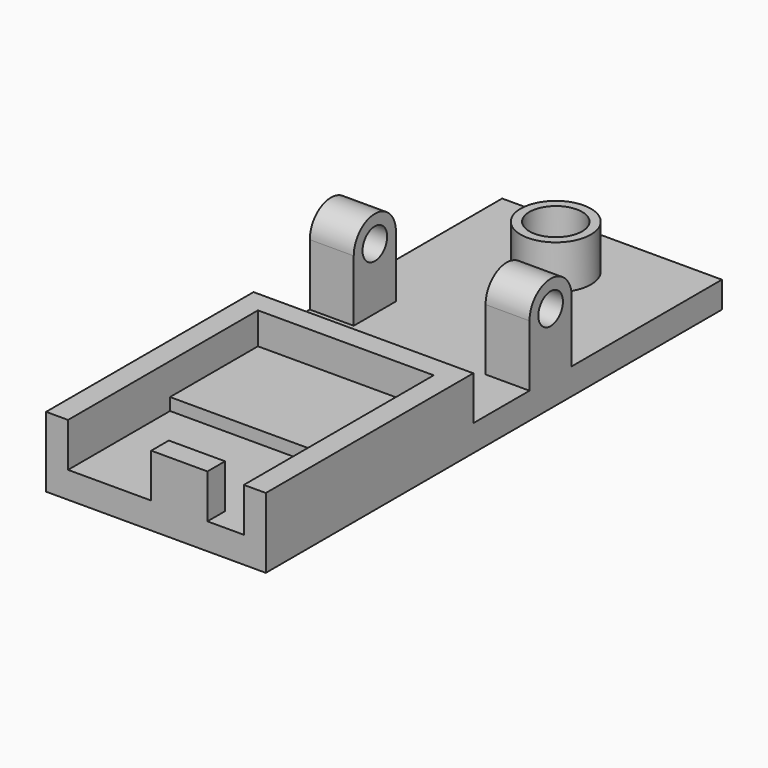
from build123d import *

# Parameters (mm, degrees)
F0_W      = 4.1414871812
F0_H      = 2.5
F0_W_2    = 6.3956826925
F0_W_3    = 4.0508699417
F0_W_4    = 5.4119601846
F0_W_5    = 25
F0_H_2    = 35.3582080007
F0_R      = 3.9974062239
F0_W_6    = 20
F0_H_3    = 12.5
F1_DEPTH  = 3
F2_DEPTH  = 5
F3_DEPTH  = 1.4
F0_R_2    = 3
F4_DEPTH  = 5
F5_DEPTH  = 3
F7_DEPTH  = 5
F9_DEPTH  = 5
F10_R     = 3
F11_DEPTH = 2


with BuildPart() as f1:
    # F0 (on Top) → F1 (new body)
    with BuildSketch(Plane.XY):
        with Locations((-2.0707435906, -1.25)):
            Rectangle(F0_W, F0_H)
        with Locations((-7.3393285275, -1.25)):
            Rectangle(F0_W_2, F0_H)
        with Locations((-17.9745650291, -1.25)):
            Rectangle(F0_W_3, F0_H)
        with Locations((-13.243149966, -1.25)):
            Rectangle(F0_W_4, F0_H)
        Polygon((0, 12), (0, 0), (0, -2.5), (2.5, -2.5), (2.5, 27), (-22.5, 27), (-22.5, -2.5), (-20, -2.5), (-20, 0), (-20, 12), (-20, 24.5), (0, 24.5), align=None)
        with Locations((-10, 44.6791040003)):
            Rectangle(F0_W_5, F0_H_2)
        with Locations((-10, 54.3582080007)):
            Circle(F0_R, mode=Mode.SUBTRACT)
        with Locations((-10, 18.25)):
            Rectangle(F0_W_6, F0_H_3)
        Polygon((-4.1414871812, 0), (0, 0), (0, 12), (-20, 12), (-20, 0), (-15.9491300583, 0), (-10.5371698737, 0), align=None)
    extrude(amount=-F1_DEPTH)

    # F0 (on Top) → F2 (join)
    with BuildSketch(Plane.XY):
        Polygon((0, 12), (0, 0), (0, -2.5), (2.5, -2.5), (2.5, 27), (-22.5, 27), (-22.5, -2.5), (-20, -2.5), (-20, 0), (-20, 12), (-20, 24.5), (0, 24.5), align=None)
        with Locations((-7.3393285275, -1.25)):
            Rectangle(F0_W_2, F0_H)
    extrude(amount=F2_DEPTH)

    # F0 (on Top) → F3 (join)
    with BuildSketch(Plane.XY):
        with Locations((-10, 18.25)):
            Rectangle(F0_W_6, F0_H_3)
    extrude(amount=F3_DEPTH)

    # F0 (on Top) → F4 (join)
    with BuildSketch(Plane.XY):
        with Locations((-10, 54.3582080007)):
            Circle(F0_R)
        with Locations((-10, 54.3582080007)):
            Circle(F0_R_2, mode=Mode.SUBTRACT)
    extrude(amount=F4_DEPTH)

    # F0 (on Top) → F5 (join)
    with BuildSketch(Plane.XY):
        with Locations((-10, 54.3582080007)):
            Circle(F0_R)
        with Locations((-10, 54.3582080007)):
            Circle(F0_R_2, mode=Mode.SUBTRACT)
        with Locations((-10, 54.3582080007)):
            Circle(F0_R_2)
    extrude(amount=-F5_DEPTH)

    # F6 (on face) → F7 (join)
    with BuildSketch(Plane.YZ.offset(2.5)):
        with BuildLine():
            ThreePointArc((41, 7), (38, 10), (35, 7))
            Line((35, 7), (36.25, 7))
            ThreePointArc((36.25, 7), (38, 8.75), (39.75, 7))
            Line((39.75, 7), (41, 7))
        make_face()
        with BuildLine():
            Line((35, 7), (35, 0))
            Line((35, 0), (41, 0))
            Line((41, 0), (41, 7))
            Line((41, 7), (39.75, 7))
            ThreePointArc((39.75, 7), (38, 5.25), (36.25, 7))
            Line((36.25, 7), (35, 7))
        make_face()
    extrude(amount=-F7_DEPTH)

    # F8 (on face) → F9 (join)
    with BuildSketch(Plane(origin=(-22.5, 0, 0), x_dir=(0, -1, 0), z_dir=(-1, 0, 0))):
        with BuildLine():
            Line((-41, 7), (-41, 0))
            Line((-41, 0), (-35, 0))
            Line((-35, 0), (-35, 7))
            Line((-35, 7), (-36.25, 7))
            ThreePointArc((-36.25, 7), (-38, 5.25), (-39.75, 7))
            Line((-39.75, 7), (-41, 7))
        make_face()
        with BuildLine():
            ThreePointArc((-35, 7), (-38, 10), (-41, 7))
            Line((-41, 7), (-39.75, 7))
            ThreePointArc((-39.75, 7), (-38, 8.75), (-36.25, 7))
            Line((-36.25, 7), (-35, 7))
        make_face()
    extrude(amount=-F9_DEPTH)

    # F10 (on face) → F11 (join)
    with BuildSketch(Plane(origin=(0, 0, -3), x_dir=(1, 0, 0), z_dir=(0, 0, -1))):
        with Locations((-10, -54.3582080007)):
            Circle(F10_R)
    extrude(amount=-F11_DEPTH)


solid = f1.part
